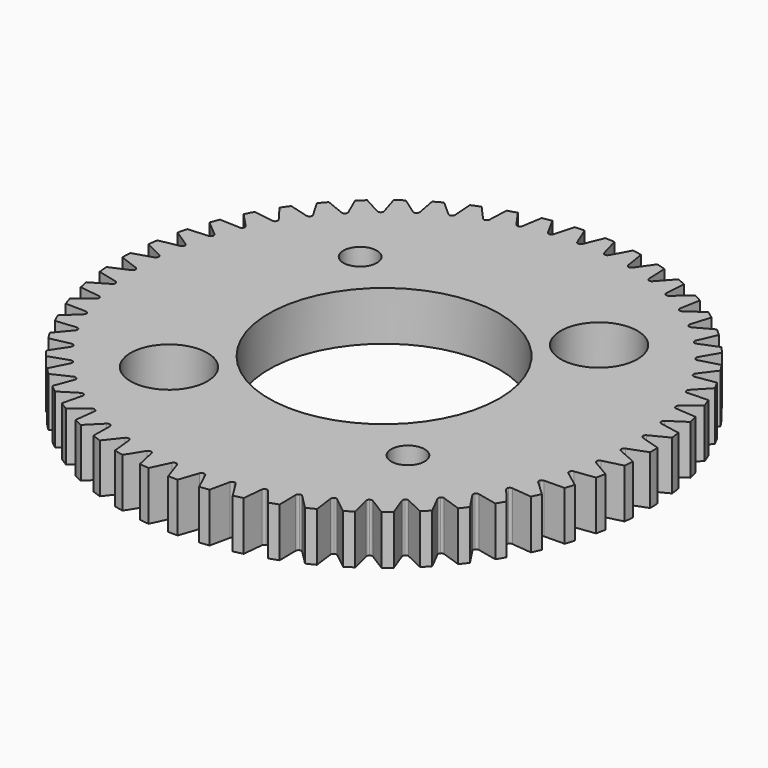
from build123d import *

# Parameters (mm, degrees)
F0_R     = 27.2745021476
F0_R_2   = 3.96875
F0_R_3   = 1.7272
F0_R_4   = 11.90625
F1_DEPTH = 5.08
F3_DEPTH = 5.08
F4_COUNT = 55
F4_ANGLE = 353.4545454545


with BuildPart() as f1:
    # F0 (on Top) → F1 (new body)
    with BuildSketch(Plane.XY):
        Circle(F0_R)
        with Locations((-12.3478521665, -12.3478521665)):
            Circle(F0_R_2, mode=Mode.SUBTRACT)
        with Locations((12.3478521665, -12.3478521665)):
            Circle(F0_R_3, mode=Mode.SUBTRACT)
        with Locations((-12.3478521665, 12.3478521665)):
            Circle(F0_R_3, mode=Mode.SUBTRACT)
        Circle(F0_R_4, mode=Mode.SUBTRACT)
        with Locations((12.3478521665, 12.3478521665)):
            Circle(F0_R_2, mode=Mode.SUBTRACT)
    extrude(amount=F1_DEPTH)

    # F2 (on face) → F3 (cut, through all)
    with BuildSketch(Plane.XY.offset(5.08)):
        with BuildLine():
            ThreePointArc((-0.275646119, 25.3116982049), (-0.1661303205, 25.1768801719), (0, 25.126181762))
            Line((0, 25.126181762), (0, 27.2745021476))
            ThreePointArc((0, 27.2745021476), (-0.5325440679, 27.2693025986), (-1.0648850899, 27.2537059341))
            Line((-1.0648850899, 27.2537059341), (-0.275646119, 25.3116982049))
        make_face()
        with BuildLine():
            Line((0, 27.2745021476), (0, 25.126181762))
            ThreePointArc((0, 25.126181762), (0.1661303205, 25.1768801719), (0.275646119, 25.3116982049))
            Line((0.275646119, 25.3116982049), (1.0648850899, 27.2537059341))
            ThreePointArc((1.0648850899, 27.2537059341), (0.5325440679, 27.2693025986), (0, 27.2745021476))
        make_face()
    f3 = extrude(amount=-F3_DEPTH, mode=Mode.SUBTRACT)

    # F4: F3 ×55 about axis
    f4_axis = Axis((0, 0, 0), (0, 0, -1))
    for i in range(1, F4_COUNT):
        add(f3.rotate(f4_axis, i * F4_ANGLE / (F4_COUNT - 1)), mode=Mode.SUBTRACT)


solid = f1.part
